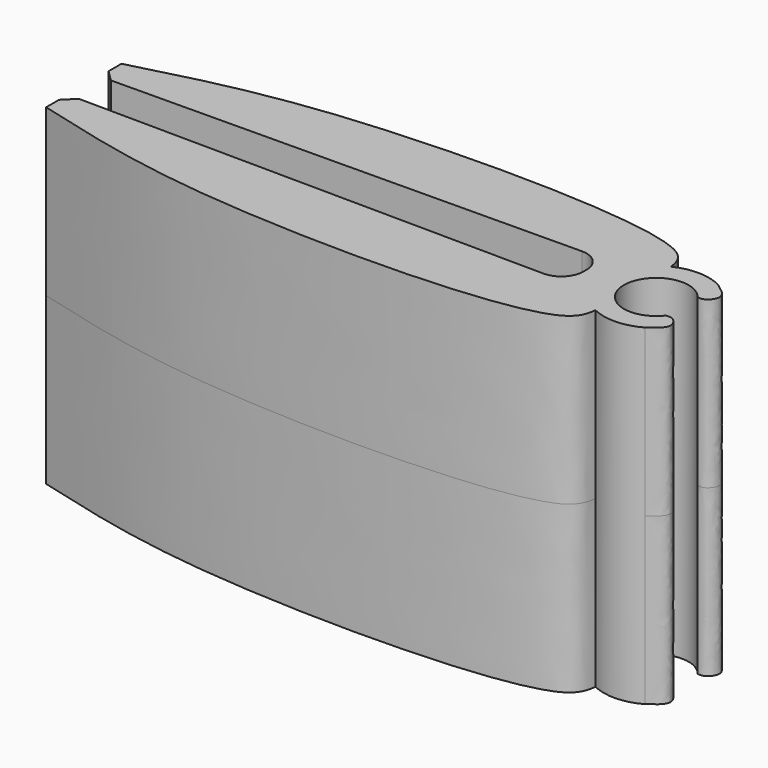
from build123d import *

# Parameters (mm, degrees)
F1_DEPTH = 7.5
F3_DEPTH = 7.5
F4_SIZE  = 0.5


with BuildPart() as f1:
    # F0 (on Top) → F1 (new body, symmetric)
    with BuildSketch(Plane.XY):
        with BuildLine():
            ThreePointArc((16.7892444879, -0.9012567011), (14.177166416, 0), (16.7892444879, 0.9012567011))
            add(Edge.make_bspline(
                [(16.7892444879, 2.0751408301), (17.0817766167, 1.8643906524), (17.6043278119, 1.487926851), (17.1393225295, 0.8569863783), (16.895080973, 0.8878727844), (16.7892444879, 0.9012567011)],
                knots=[0, 0, 0, 0, 0.418834252, 0.7481651325, 1, 1, 1, 1], degree=3))
            ThreePointArc((16.7892444879, 2.0751408301), (13.2649986311, 0), (16.7892444879, -2.0751408301))
            add(Edge.make_bspline(
                [(16.7892444879, -2.0751408301), (17.0817766167, -1.8643906524), (17.6043278119, -1.487926851), (17.1393225295, -0.8569863783), (16.895080973, -0.8878727844), (16.7892444879, -0.9012567011)],
                knots=[0, 0, 0, 0, 0.418834252, 0.7481651325, 1, 1, 1, 1], degree=3))
        make_face()
    extrude(amount=F1_DEPTH, both=True)

    # F2 (on Top) → F3 (join, symmetric)
    with BuildSketch(Plane.XY):
        with BuildLine():
            ThreePointArc((11.4055118786, 1.0911012502), (12.1183137998, 0.8013586402), (12.4143324792, 0.0911401524))
            Line((12.4143324792, 0.0911401524), (12.4143324792, -0.0911401524))
            ThreePointArc((12.4143324792, -0.0911401524), (12.1183137998, -0.8013586402), (11.4055118786, -1.0911012502))
            Line((11.4055118786, -1.0911012502), (-10.2589782327, -0.9))
            Line((-10.2589782327, -0.9), (-10.2589782327, -2.1322260433))
            add(Edge.make_bspline(
                [(-10.2589782327, -2.1322260433), (-7.8308672605, -2.7680444958), (-2.1715241973, -4.4371278226), (14.2840922078, -4.2672083443), (14.5433608635, -2.4774637884), (14.5964084265, -2.1322260433)],
                knots=[0, 0, 0, 0, 0.3763600101, 0.8609680907, 1, 1, 1, 1], degree=3))
            Line((14.5964084265, -2.1322260433), (13.9306001365, -1.5301937237))
            Line((13.9306001365, -1.5301937237), (13.9306001365, 1.5301937237))
            Line((13.9306001365, 1.5301937237), (14.5964084265, 2.1322260433))
            add(Edge.make_bspline(
                [(-10.2589782327, 2.1322260433), (-7.8308672605, 2.7680444958), (-2.1715241973, 4.4371278226), (14.2840922078, 4.2672083443), (14.5433608635, 2.4774637884), (14.5964084265, 2.1322260433)],
                knots=[0, 0, 0, 0, 0.3763600101, 0.8609680907, 1, 1, 1, 1], degree=3))
            Line((-10.2589782327, 2.1322260433), (-10.2589782327, 0.9))
            Line((-10.2589782327, 0.9), (11.4055118786, 1.0911012502))
        make_face()
    extrude(amount=F3_DEPTH, both=True)

    # F4
    f4_edges = [f1.edges().sort_by_distance(p)[0] for p in [
        (-10.258978, -0.9, 0),
        (-10.258978, 0.9, 0),
    ]]
    chamfer(f4_edges, length=F4_SIZE)


solid = f1.part
